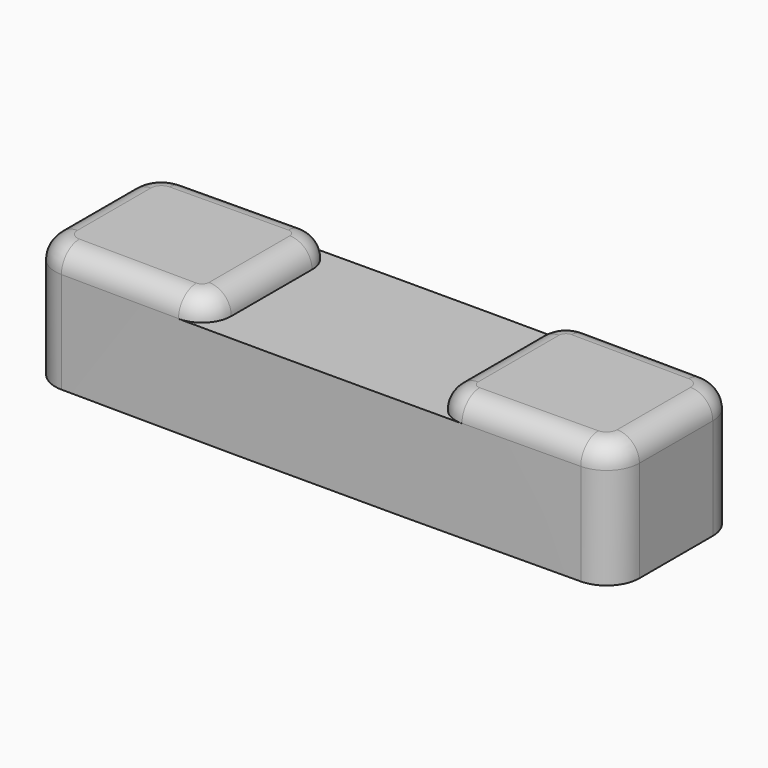
from build123d import *

# Parameters (mm, degrees)
SKETCH039_R   = 3
SKETCH039_R_2 = 1.75
SKETCH039_W   = 3.25
SKETCH039_H   = 2.2
PAD022_DEPTH  = 2.5
SKETCH026_W   = 10
SKETCH026_H   = 9
PAD020_DEPTH  = 2
PAD019_DEPTH  = 5.5
FILLET003_R   = 1.3
FILLET004_R   = 0.99


with BuildPart() as pad_button_zoom_holes:
    # Sketch039 → Pad022 (new body)
    with BuildSketch(Plane.XY):
        Circle(SKETCH039_R)
        Circle(SKETCH039_R_2, mode=Mode.SUBTRACT)
        with Locations((-7.5, 0)):
            Rectangle(SKETCH039_W, SKETCH039_H)
        with Locations((7.5, 0)):
            Rectangle(SKETCH039_W, SKETCH039_H)
    extrude(amount=PAD022_DEPTH)


with BuildPart() as pad_button_zoom_cutout:
    # Sketch026 → Pad020 (new body)
    with BuildSketch(Plane.XY.offset(4.5)):
        Rectangle(SKETCH026_W, SKETCH026_H)
    extrude(amount=PAD020_DEPTH)


with BuildPart() as cut_button_zoom_final:
    # Sketch025 → Pad019 (new body)
    with BuildSketch(Plane.XY):
        with BuildLine():
            ThreePointArc((11.557852, 3.5), (0, 3.566794), (-11.557852, 3.5))
            ThreePointArc((-11.557852, 3.5), (-12.578424, 3.066971), (-12.999999, 2.041615))
            ThreePointArc((-12.999999, 2.041615), (-13.000368, 0), (-13, -2.041615))
            ThreePointArc((-13, -2.041615), (-12.578425, -3.066972), (-11.557852, -3.5))
            ThreePointArc((-11.557852, -3.5), (0, -3.566794), (11.557852, -3.5))
            ThreePointArc((11.557852, -3.5), (12.578425, -3.066972), (13, -2.041615))
            ThreePointArc((13, -2.041615), (13.000368, 0), (12.999999, 2.041615))
            ThreePointArc((12.999999, 2.041615), (12.578424, 3.066971), (11.557852, 3.5))
        make_face()
    extrude(amount=PAD019_DEPTH)

    # Cut007: cut Pad (button zoom cutout)
    add(pad_button_zoom_cutout.part, mode=Mode.SUBTRACT)

    # Fillet003
    fillet003_edges = [cut_button_zoom_final.edges().sort_by_distance(p)[0] for p in [
        (-5, 3.554294, 5),
        (5, 3.554294, 5),
        (-5, -3.554294, 5),
        (5, -3.554294, 5),
    ]]
    fillet(fillet003_edges, radius=FILLET003_R)

    # Fillet004
    fillet004_edges = [cut_button_zoom_final.edges().sort_by_distance(p)[0] for p in [
        (-8.933057, 3.526894, 5.5),
        (8.933057, 3.526894, 5.5),
        (-5.383665, 3.169057, 5.5),
        (-12.578424, 3.066971, 5.5),
        (-5, 0, 5.5),
        (-13.000368, 0, 5.5),
        (-5.383665, -3.169057, 5.5),
        (-12.578425, -3.066972, 5.5),
        (-8.933057, -3.526894, 5.5),
        (12.578424, 3.066971, 5.5),
        (5.383665, 3.169057, 5.5),
        (5, 0, 5.5),
        (13.000368, 0, 5.5),
        (5.383665, -3.169057, 5.5),
        (12.578425, -3.066972, 5.5),
        (8.933057, -3.526894, 5.5),
    ]]
    fillet(fillet004_edges, radius=FILLET004_R)

    # Cut: cut Pad (button zoom holes)
    add(pad_button_zoom_holes.part, mode=Mode.SUBTRACT)


solid = cut_button_zoom_final.part
